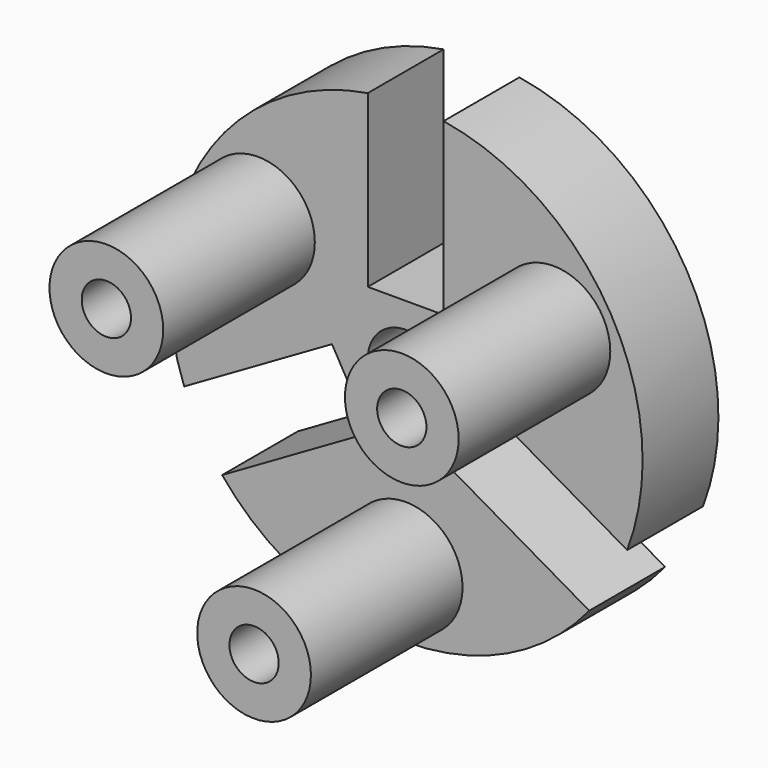
from build123d import *

# Parameters (mm, degrees)
F0_R     = 2
F1_DEPTH = 5
F2_R     = 3
F3_DEPTH = 10
F4_R     = 1.3
F5_DEPTH = 10


with BuildPart() as f1:
    # F0 (on Front) → F1 (new body)
    with BuildSketch(Plane.XZ):
        with BuildLine():
            Line((-2, 3.338963), (-2, 12.338963))
            ThreePointArc((-2, 12.338963), (-10.825318, 6.25), (-11.685855, -4.437431))
            Line((-11.685855, -4.437431), (-3.891627, 0.062569))
            Line((-3.891627, 0.062569), (-1.891627, -3.401532))
            Line((-1.891627, -3.401532), (-9.685855, -7.901532))
            ThreePointArc((-9.685855, -7.901532), (0, -12.5), (9.685855, -7.901532))
            Line((9.685855, -7.901532), (1.891627, -3.401532))
            Line((1.891627, -3.401532), (3.891627, 0.062569))
            Line((3.891627, 0.062569), (11.685855, -4.437431))
            ThreePointArc((11.685855, -4.437431), (10.825318, 6.25), (2, 12.338963))
            Line((2, 12.338963), (2, 3.338963))
            Line((2, 3.338963), (-2, 3.338963))
        make_face()
        Circle(F0_R, mode=Mode.SUBTRACT)
    extrude(amount=F1_DEPTH)

    # F2 (on face) → F3 (join)
    with BuildSketch(Plane.XZ.offset(5)):
        with Locations((7.794229, 4.5)):
            Circle(F2_R)
        with Locations((-7.794229, 4.5)):
            Circle(F2_R)
        with Locations((0, -9)):
            Circle(F2_R)
    extrude(amount=F3_DEPTH)

    # F4 (on face) → F5 (cut)
    with BuildSketch(Plane.XZ.offset(15)):
        with Locations((0, -9)):
            Circle(F4_R)
        with Locations((7.794229, 4.5)):
            Circle(F4_R)
        with Locations((-7.794229, 4.5)):
            Circle(F4_R)
    extrude(amount=-F5_DEPTH, mode=Mode.SUBTRACT)


solid = f1.part
